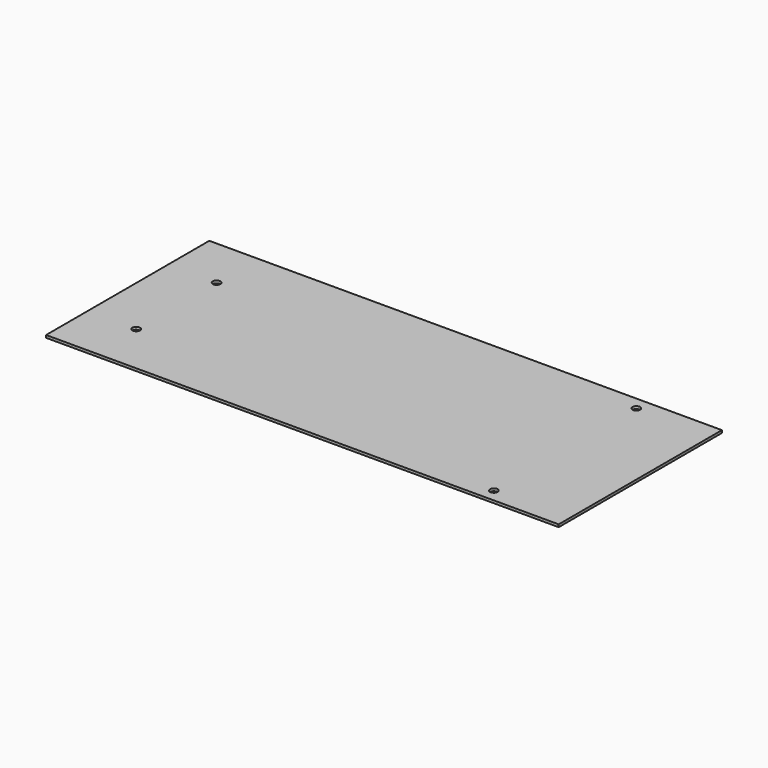
from build123d import *

# Parameters (mm, degrees)
SKETCH_W  = 201
SKETCH_H  = 80
SKETCH_R  = 1.5
PAD_DEPTH = 1


with BuildPart() as part:
    # Sketch → Pad (new body)
    with BuildSketch(Plane.XY):
        with Locations((100.5, 40)):
            Rectangle(SKETCH_W, SKETCH_H)
        with Locations((19.1, 59.7)):
            Circle(SKETCH_R, mode=Mode.SUBTRACT)
        with Locations((19.1, 20.3)):
            Circle(SKETCH_R, mode=Mode.SUBTRACT)
        with Locations((171.5, 74.9)):
            Circle(SKETCH_R, mode=Mode.SUBTRACT)
        with Locations((171.5, 5.1)):
            Circle(SKETCH_R, mode=Mode.SUBTRACT)
    extrude(amount=PAD_DEPTH)


solid = part.part
